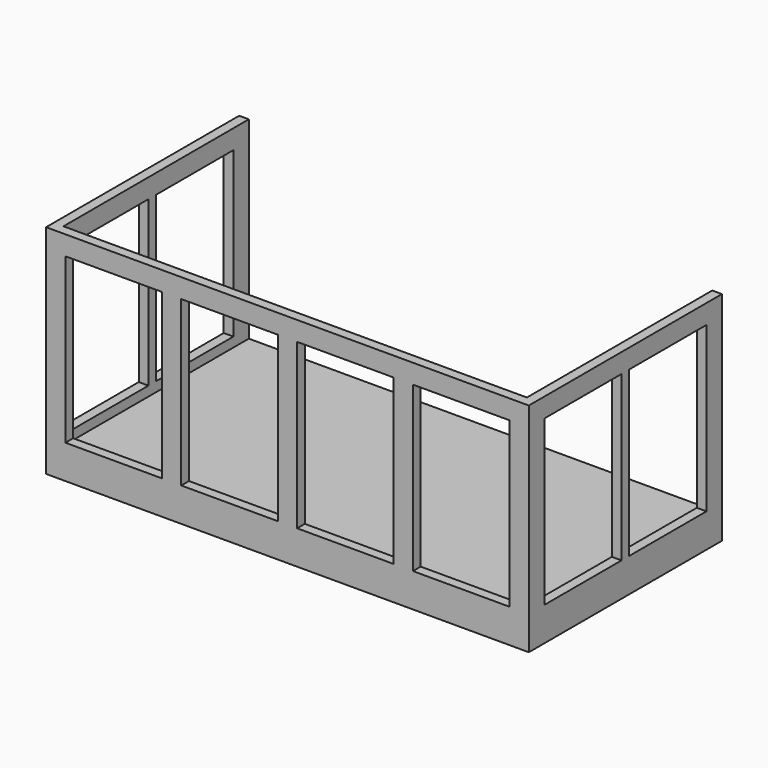
from build123d import *

# Parameters (mm, degrees)
F0_W     = 100
F0_H     = 50
F1_DEPTH = 5
F2_W     = 2
F2_H     = 48
F3_DEPTH = 40
F4_W     = 20
F4_H     = 34
F5_DEPTH = 5
F6_W     = 20
F6_H     = 34
F7_DEPTH = 5
F8_W     = 20
F8_H     = 34
F9_DEPTH = 5


with BuildPart() as f1:
    # F0 (on Top) → F1 (new body)
    with BuildSketch(Plane.XY):
        with Locations((19.01981, 8.886849)):
            Rectangle(F0_W, F0_H)
        with Locations((19.01981, 8.886849)):
            Rectangle(F0_W, F0_H)
    extrude(amount=F1_DEPTH)

    # F2 (on face) → F3 (join)
    with BuildSketch(Plane.XY.offset(5)):
        Polygon((-28.98019, 33.886849), (-30.98019, 33.886849), (-30.98019, -16.113151), (-28.98019, -16.113151), (-28.98019, -14.113151), align=None)
        Polygon((67.01981, -14.113151), (-28.98019, -14.113151), (-28.98019, -16.113151), (69.01981, -16.113151), (69.01981, -14.113151), align=None)
        with Locations((68.01981, 9.886849)):
            Rectangle(F2_W, F2_H)
    extrude(amount=F3_DEPTH)

    # F4 (on face) → F5 (cut)
    with BuildSketch(Plane.XZ.offset(16.113151)):
        with Locations((-16.98019, 24)):
            Rectangle(F4_W, F4_H)
        with Locations((7.01981, 24)):
            Rectangle(F4_W, F4_H)
        with Locations((31.01981, 24)):
            Rectangle(F4_W, F4_H)
        with Locations((55.01981, 24)):
            Rectangle(F4_W, F4_H)
    extrude(amount=-F5_DEPTH, mode=Mode.SUBTRACT)

    # F6 (on face) → F7 (cut)
    with BuildSketch(Plane(origin=(-30.98019, 0, 0), x_dir=(0, -1, 0), z_dir=(-1, 0, 0))):
        with Locations((-19.886849, 24)):
            Rectangle(F6_W, F6_H)
        with Locations((2.113151, 24)):
            Rectangle(F6_W, F6_H)
        with Locations((-19.886849, 24)):
            Rectangle(F6_W, F6_H)
        with Locations((2.113151, 24)):
            Rectangle(F6_W, F6_H)
    extrude(amount=-F7_DEPTH, mode=Mode.SUBTRACT)

    # F8 (on face) → F9 (cut)
    with BuildSketch(Plane.YZ.offset(69.01981)):
        with Locations((-2.113151, 24)):
            Rectangle(F8_W, F8_H)
        with Locations((19.886849, 24)):
            Rectangle(F8_W, F8_H)
    extrude(amount=-F9_DEPTH, mode=Mode.SUBTRACT)


solid = f1.part
